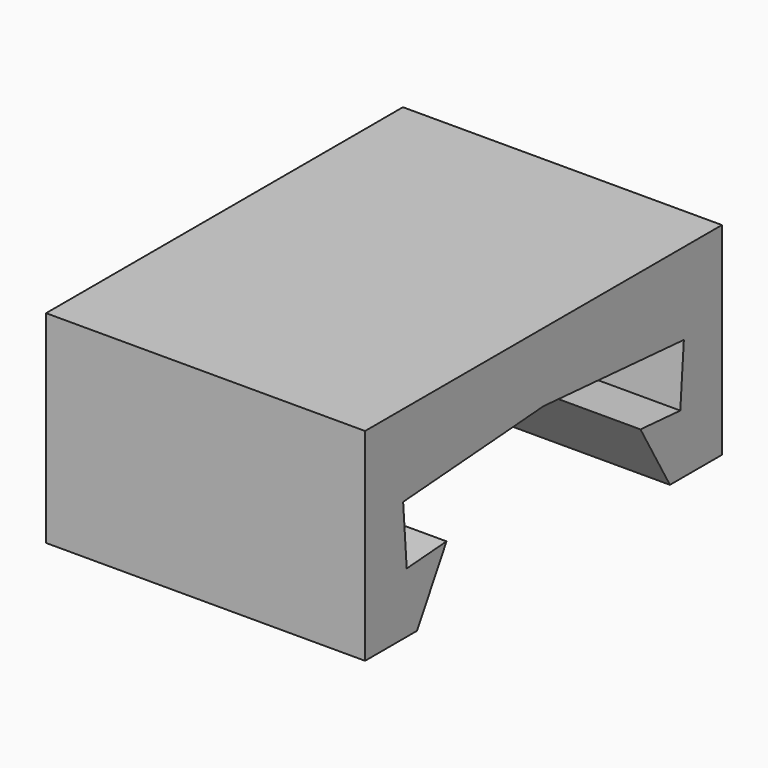
from build123d import *

# Parameters (mm, degrees)
F2_DEPTH = 10


with BuildPart() as f2:
    # F1 (on Right) → F2 (new body)
    with BuildSketch(Plane.YZ):
        Polygon((-4.9547005384, 0), (-3.8, 2), (-5.3601791831, 1.8848744112), (-5.5, 3.7797227268), (0, 4.18556761), (0, 6), (-6.9916076098, 6), (-6.9916076098, 0), align=None)
        Polygon((-6.9916076098, 6.3426704399), (-6.9916076098, 6), (0, 6.3426704399), align=None)
        Polygon((0, 6.3426704399), (-6.9916076098, 6), (0, 6), align=None)
        Polygon((0, 6), (0, 4.18556761), (5.5, 3.7797227268), (5.3601791831, 1.8848744112), (3.8, 2), (4.9547005384, 0), (6.9916076098, 0), (6.9916076098, 6), align=None)
        Polygon((6.9916076098, 6), (0, 6.3426704399), (0, 6), align=None)
        Polygon((6.9916076098, 6.3426704399), (0, 6.3426704399), (6.9916076098, 6), align=None)
    extrude(amount=F2_DEPTH)


solid = f2.part
